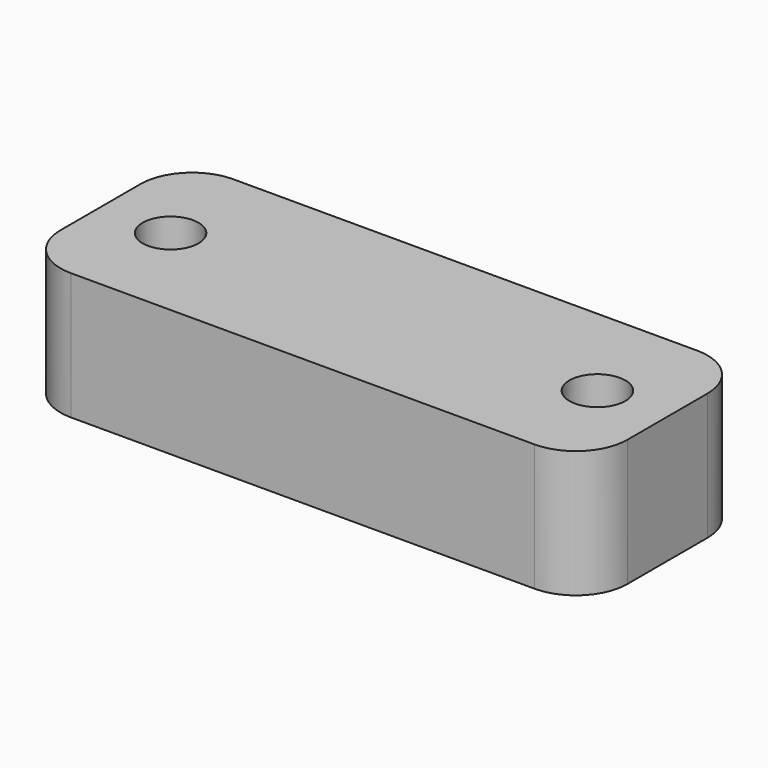
from build123d import *

# Parameters (mm, degrees)
F0_W     = 55.8
F0_H     = 20
F1_DEPTH = 12.5
F2_D     = 5.5
F3_R     = 5.08


with BuildPart() as f1:
    # F0 (on Top) → F1 (new body)
    with BuildSketch(Plane.XY):
        Rectangle(F0_W, F0_H)
    extrude(amount=-F1_DEPTH)

    # F2 (through all)
    with Locations(Plane.XY):
        with Locations((21, 0), (-21, 0)):
            Hole(F2_D / 2)

    # F3
    f3_edges = [f1.edges().sort_by_distance(p)[0] for p in [
        (27.9, 10, -6.25),
        (27.9, -10, -6.25),
        (-27.9, -10, -6.25),
        (-27.9, 10, -6.25),
    ]]
    fillet(f3_edges, radius=F3_R)


solid = f1.part
